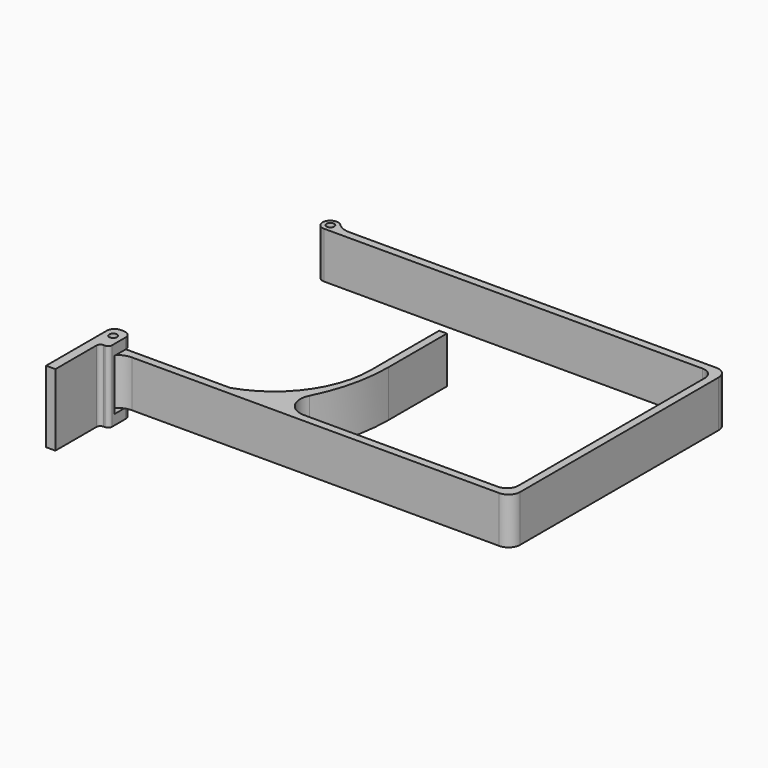
from build123d import *

# Parameters (mm, degrees)
F0_R     = 1
F1_DEPTH = 12
F3_DEPTH = 2.4
F4_R     = 1
F5_DEPTH = 25
F6_R     = 2
F7_W     = 2.983586
F7_H     = 14.870913
F8_DEPTH = 25
F9_R     = 1


with BuildPart() as f1:
    # F0 (on Top) → F1 (new body)
    with BuildSketch(Plane.XY):
        with BuildLine():
            Line((28.549692, 2), (0, 2))
            ThreePointArc((0, 2), (-1.85164, -0.755929), (1.399708, -1.428571))
            ThreePointArc((1.399708, -1.428571), (3.009157, -0.3709), (4.898979, 0))
            Line((4.898979, 0), (99.552051, 0))
            ThreePointArc((99.552051, 0), (101.673372, 0.87868), (102.552051, 3))
            Line((102.552051, 3), (102.552051, 67))
            ThreePointArc((102.552051, 67), (101.673372, 69.12132), (99.552051, 70))
            Line((99.552051, 70), (4.898979, 70))
            ThreePointArc((4.898979, 70), (3.009157, 70.3709), (1.399708, 71.428571))
            ThreePointArc((1.399708, 71.428571), (-1.85164, 70.755929), (0, 68))
            Line((0, 68), (97.552051, 68))
            ThreePointArc((97.552051, 68), (99.673372, 67.12132), (100.552051, 65))
            Line((100.552051, 65), (100.552051, 5))
            ThreePointArc((100.552051, 5), (99.673372, 2.87868), (97.552051, 2))
            Line((97.552051, 2), (47.638197, 2))
            ThreePointArc((47.638197, 2), (43.379035, 4.380928), (43.176176, 9.256185))
            ThreePointArc((43.176176, 9.256185), (46.669044, 18.791967), (47.854893, 28.877849))
            Line((47.854893, 28.877849), (47.854893, 47.755239))
            Line((47.854893, 47.755239), (45.854893, 47.755239))
            Line((45.854893, 47.755239), (45.854893, 25.755239))
            ThreePointArc((45.854893, 25.755239), (41.069882, 11.06016), (28.549692, 2))
        make_face()
        Circle(F0_R, mode=Mode.SUBTRACT)
        with Locations((0, 70)):
            Circle(F0_R, mode=Mode.SUBTRACT)
    extrude(amount=F1_DEPTH)


with BuildPart() as f3:
    # F2 (on Right) → F3 (new body, symmetric)
    with BuildSketch(Plane.YZ):
        Polygon((-18.641306, -3.171306), (2.916667, -3.171306), (2.916667, -0.588372), (-2.595123, -0.588372), (-2.595123, 12.618463), (2.916667, 12.618463), (2.916667, 15.343188), (-18.641306, 15.343188), align=None)
    extrude(amount=F3_DEPTH, both=True)

    # F4 (on face) → F5 (cut)
    with BuildSketch(Plane.XY.offset(15.343188)):
        Circle(F4_R)
    extrude(amount=-F5_DEPTH, mode=Mode.SUBTRACT)

    # F6
    f6_edges = [f3.edges().sort_by_distance(p)[0] for p in [
        (-2.4, 2.916667, -1.879839),
        (2.4, 2.916667, -1.879839),
        (-2.4, 2.916667, 13.980825),
        (2.4, 2.916667, 13.980825),
    ]]
    fillet(f6_edges, radius=F6_R)

    # F7 (on face) → F8 (cut)
    with BuildSketch(Plane.XY.offset(15.343188)):
        with Locations((1.491793, -11.820071)):
            Rectangle(F7_W, F7_H)
    extrude(amount=-F8_DEPTH, mode=Mode.SUBTRACT)

    # F9
    f9_edges = [f3.edges().sort_by_distance(p)[0] for p in [
        (2.4, -4.384615, 6.085941),
        (0, -4.384615, 6.085941),
    ]]
    fillet(f9_edges, radius=F9_R)


solid = Compound([f1.part, f3.part])
